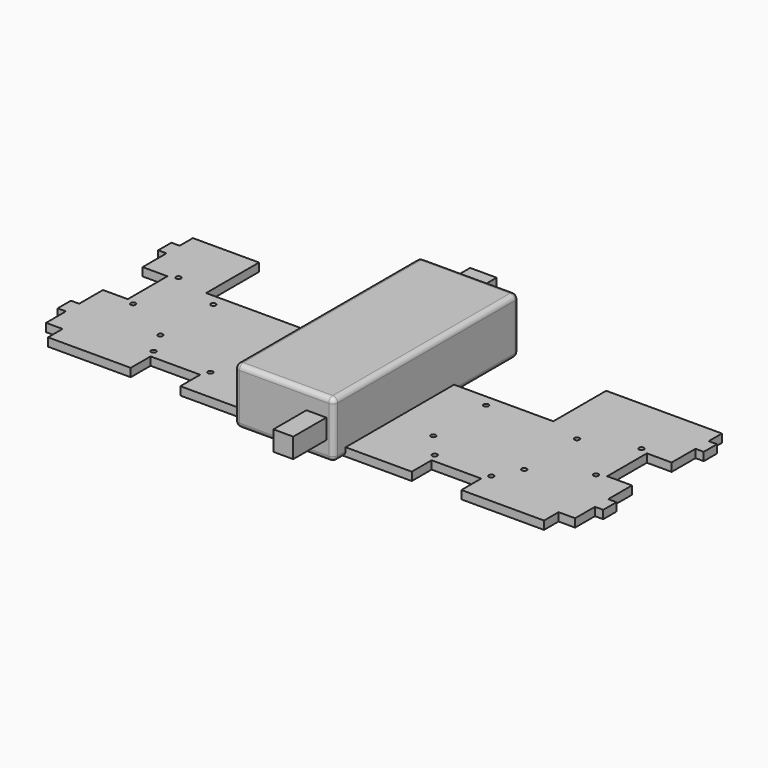
from build123d import *

# Parameters (mm, degrees)
F0_W     = 60
F0_H     = 140
F1_DEPTH = 34
F2_R     = 3
F3_W     = 12
F3_H     = 12
F4_DEPTH = 25
F5_W     = 16
F5_H     = 8
F6_DEPTH = 25
F7_W     = 5
F7_H     = 10
F7_R     = 1.5
F8_DEPTH = 5


with BuildPart() as f1:
    # F0 (on Top) → F1 (new body)
    with BuildSketch(Plane.XY):
        Rectangle(F0_W, F0_H)
    extrude(amount=F1_DEPTH)

    # F2
    f2_edges = [f1.edges().sort_by_distance(p)[0] for p in [
        (0, -70, 34),
        (-30, 0, 34),
        (0, 70, 34),
        (30, 0, 34),
        (30, -70, 17),
        (-30, -70, 17),
        (0, -70, 0),
        (30, 0, 0),
        (30, 70, 17),
        (0, 70, 0),
        (-30, 70, 17),
        (-30, 0, 0),
    ]]
    fillet(f2_edges, radius=F2_R)

    # F3 (on face) → F4 (join)
    with BuildSketch(Plane.XZ.offset(70)):
        with Locations((19.5, 17)):
            Rectangle(F3_W, F3_H)
    extrude(amount=F4_DEPTH)

    # F5 (on face) → F6 (join)
    with BuildSketch(Plane(origin=(0, 70, 0), x_dir=(-1, 0, 0), z_dir=(0, 1, 0))):
        with Locations((11.5, 17)):
            Rectangle(F5_W, F5_H)
    extrude(amount=F6_DEPTH)


with BuildPart() as f8:
    # F7 (on Top) → F8 (new body)
    with BuildSketch(Plane.XY):
        with Locations((-162.5, 46)):
            Rectangle(F7_W, F7_H)
        with Locations((-162.5, -30)):
            Rectangle(F7_W, F7_H)
        with Locations((162.5, 46)):
            Rectangle(F7_W, F7_H)
        with Locations((162.5, -30)):
            Rectangle(F7_W, F7_H)
        Polygon((100, -61), (150, -61), (150, -50), (160, -50), (160, -35), (160, -25), (160, -7), (145, -7), (145, 23), (160, 23), (160, 41), (160, 51), (160, 61), (90, 61), (90, 21), (-120, 21), (-120, 61), (-160, 61), (-160, 51), (-160, 41), (-160, 23), (-145, 23), (-145, -7), (-160, -7), (-160, -25), (-160, -35), (-160, -50), (-150, -50), (-150, -61), (-100, -61), (-100, -46), (-70, -46), (-70, -61), (70, -61), (70, -46), (100, -46), align=None)
        with Locations((-102.15, -41)):
            Circle(F7_R, mode=Mode.SUBTRACT)
        with Locations((-67.85, -41)):
            Circle(F7_R, mode=Mode.SUBTRACT)
        with Locations((-110, -26)):
            Circle(F7_R, mode=Mode.SUBTRACT)
        with Locations((-140, -9.15)):
            Circle(F7_R, mode=Mode.SUBTRACT)
        with Locations((-55, -26)):
            Circle(F7_R, mode=Mode.SUBTRACT)
        with Locations((67.85, -41)):
            Circle(F7_R, mode=Mode.SUBTRACT)
        with Locations((102.15, -41)):
            Circle(F7_R, mode=Mode.SUBTRACT)
        with Locations((0, -26)):
            Circle(F7_R, mode=Mode.SUBTRACT)
        with Locations((55, -26)):
            Circle(F7_R, mode=Mode.SUBTRACT)
        with Locations((110, -26)):
            Circle(F7_R, mode=Mode.SUBTRACT)
        with Locations((140, -9.15)):
            Circle(F7_R, mode=Mode.SUBTRACT)
        with Locations((-110, 14)):
            Circle(F7_R, mode=Mode.SUBTRACT)
        with Locations((-140, 25.15)):
            Circle(F7_R, mode=Mode.SUBTRACT)
        with Locations((-55, 14)):
            Circle(F7_R, mode=Mode.SUBTRACT)
        with Locations((0, 14)):
            Circle(F7_R, mode=Mode.SUBTRACT)
        with Locations((55, 14)):
            Circle(F7_R, mode=Mode.SUBTRACT)
        with Locations((110, 14)):
            Circle(F7_R, mode=Mode.SUBTRACT)
        with Locations((140, 25.15)):
            Circle(F7_R, mode=Mode.SUBTRACT)
    extrude(amount=F8_DEPTH)


solid = Compound([f1.part, f8.part])
